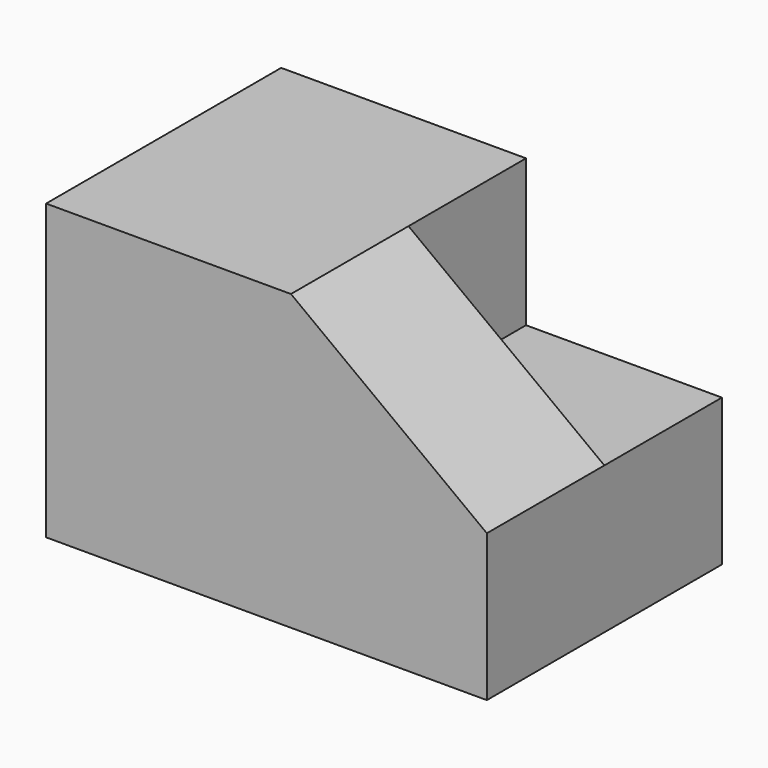
from build123d import *

# Parameters (mm, degrees)
F1_DEPTH = 76.2
F3_DEPTH = 76.2


with BuildPart() as f1:
    # F0 (on Front) → F1 (new body, symmetric)
    with BuildSketch(Plane.XZ):
        Polygon((-228.6, 0), (0, 0), (0, 76.2), (-101.6, 152.4), (-228.6, 152.4), align=None)
    extrude(amount=F1_DEPTH, both=True)

    # F2 (on face) → F3 (cut)
    with BuildSketch(Plane(origin=(0, 76.2, 0), x_dir=(-1, 0, 0), z_dir=(0, 1, 0))):
        Polygon((101.6, 76.2), (101.6, 152.4), (0, 76.2), align=None)
    extrude(amount=-F3_DEPTH, mode=Mode.SUBTRACT)


solid = f1.part
